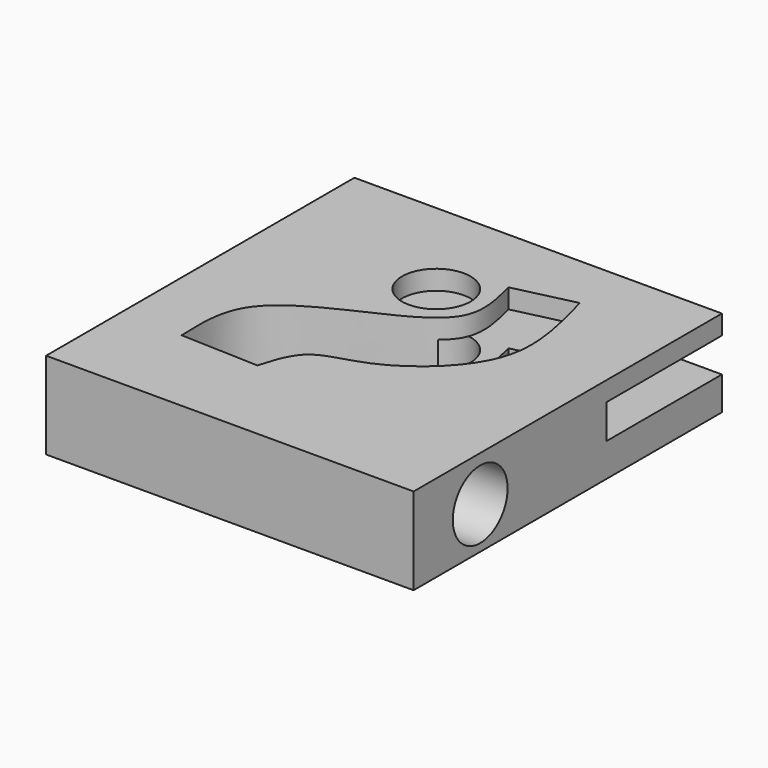
from build123d import *

# Parameters (mm, degrees)
F0_W     = 107.320446521
F0_H     = 112.5355064869
F1_DEPTH = 25.4
F2_R     = 10
F2_W     = 44.1350700906
F2_H     = 10
F3_DEPTH = 107.321446621
F4_R     = 10
F5_DEPTH = 25.4010001


with BuildPart() as f1:
    # F0 (on Top) → F1 (new body)
    with BuildSketch(Plane.XY):
        with Locations((-0.9606685489, -0.4117153585)):
            Rectangle(F0_W, F0_H)
        with BuildLine():
            Line((-13.9983193949, -30.3296931088), (-36.7798954248, -29.5062605292))
            add(Edge.make_bspline(
                [(-36.7798954248, -29.5062605292), (-37.0737623342, -22.3038153757), (-37.7074826154, -6.7718333039), (-11.6101098174, 5.4940779058), (11.5229911211, 16.1858602813), (8.1523007319, 29.4068529306), (6.5874438733, 35.5447530746)],
                knots=[0, 0, 0, 0, 0.2420361752, 0.5219479572, 0.7780623755, 1, 1, 1, 1], degree=3))
            Line((6.5874438733, 35.5447530746), (24.1539627314, 39.6619029343))
            add(Edge.make_bspline(
                [(-13.9983193949, -30.3296931088), (-12.7174517336, -25.9697019043), (-10.0863175924, -17.0134903766), (5.2905439896, -15.0083142094), (21.4625052751, -3.7589083207), (31.1936947319, 13.367953183), (26.6480589275, 30.3462585247), (24.1539627314, 39.6619029343)],
                knots=[0, 0, 0, 0, 0.1678735533, 0.3448426804, 0.5534704946, 0.7549985109, 1, 1, 1, 1], degree=3))
        make_face(mode=Mode.SUBTRACT)
    extrude(amount=F1_DEPTH)

    # F2 (on face) → F3 (cut, through all)
    with BuildSketch(Plane.YZ.offset(52.6995547116)):
        with Locations((-32.3753028454, 12.2389346361)):
            Circle(F2_R)
        with Locations((35.833440075, 14.731259873)):
            Rectangle(F2_W, F2_H)
    extrude(amount=-F3_DEPTH, mode=Mode.SUBTRACT)

    # F4 (on face) → F5 (cut, through all)
    with BuildSketch(Plane.XY.offset(25.4)):
        with Locations((-5.7272729464, 24.6272739023)):
            Circle(F4_R)
    extrude(amount=-F5_DEPTH, mode=Mode.SUBTRACT)


solid = f1.part
